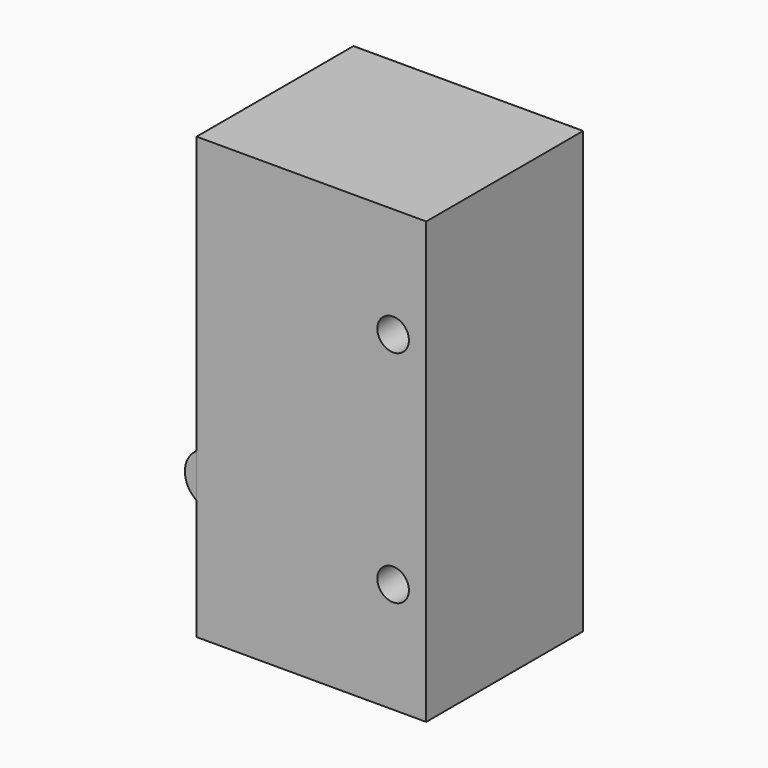
from build123d import *

# Parameters (mm, degrees)
F0_W     = 5.715
F0_H     = 12.8397
F1_DEPTH = 6.6929
F3_DEPTH = 5.715
F4_R     = 0.460375
F5_DEPTH = 5.715


with BuildPart() as f1:
    # F0 (on Right) → F1 (new body)
    with BuildSketch(Plane.YZ):
        Rectangle(F0_W, F0_H)
    extrude(amount=F1_DEPTH)

    # F4 (on face) → F5 (cut, through all)
    with BuildSketch(Plane.XZ.offset(2.8575)):
        with Locations((5.7277, 3.20675)):
            Circle(F4_R)
        with Locations((5.7277, -3.20675)):
            Circle(F4_R)
    extrude(amount=-F5_DEPTH, mode=Mode.SUBTRACT)


with BuildPart() as f3:
    # F2 (on face) → F3 (new body, through all)
    with BuildSketch(Plane.XZ.offset(2.8575)):
        with BuildLine():
            Line((0, -2.91465), (0, -1.64465))
            ThreePointArc((0, -1.64465), (-0.340789, -2.27965), (0, -2.91465))
        make_face()
    extrude(amount=-F3_DEPTH)


solid = Compound([f1.part, f3.part])
